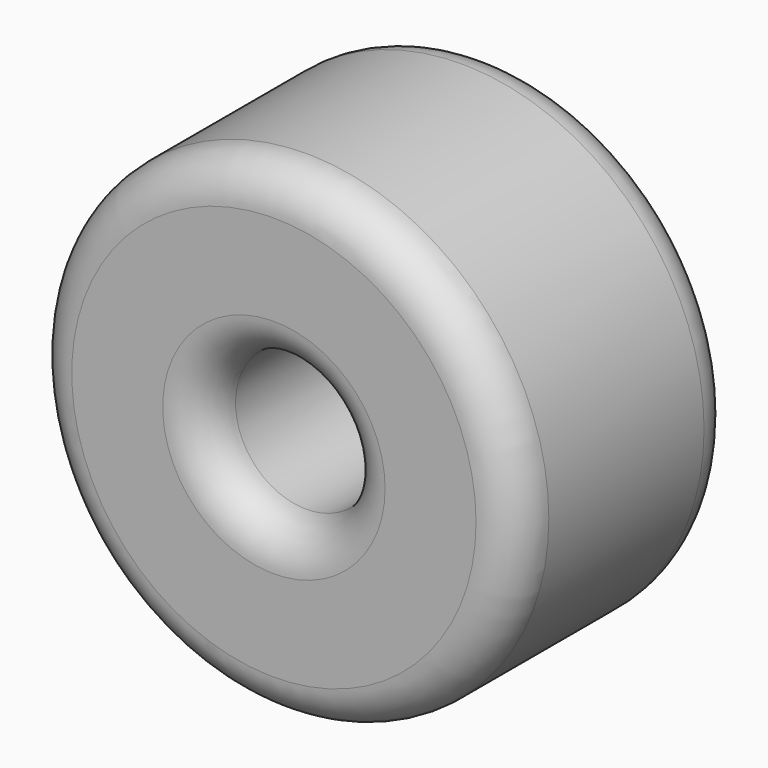
from build123d import *

# Parameters (mm, degrees)
F0_R     = 6
F0_R_2   = 1.75
F1_DEPTH = 6.8
F2_R     = 1
F3_R     = 1


with BuildPart() as f1:
    # F0 (on Front) → F1 (new body)
    with BuildSketch(Plane.XZ):
        Circle(F0_R)
        Circle(F0_R_2, mode=Mode.SUBTRACT)
    extrude(amount=F1_DEPTH)

    # F2
    f2_edges = [f1.edges().sort_by_distance(p)[0] for p in [
        (-6, -6.8, 0),
        (-6, 0, 0),
    ]]
    fillet(f2_edges, radius=F2_R)

    # F3
    f3_edges = [f1.edges().sort_by_distance(p)[0] for p in [
        (-1.75, -6.8, 0),
        (-1.75, 0, 0),
    ]]
    fillet(f3_edges, radius=F3_R)


solid = f1.part
